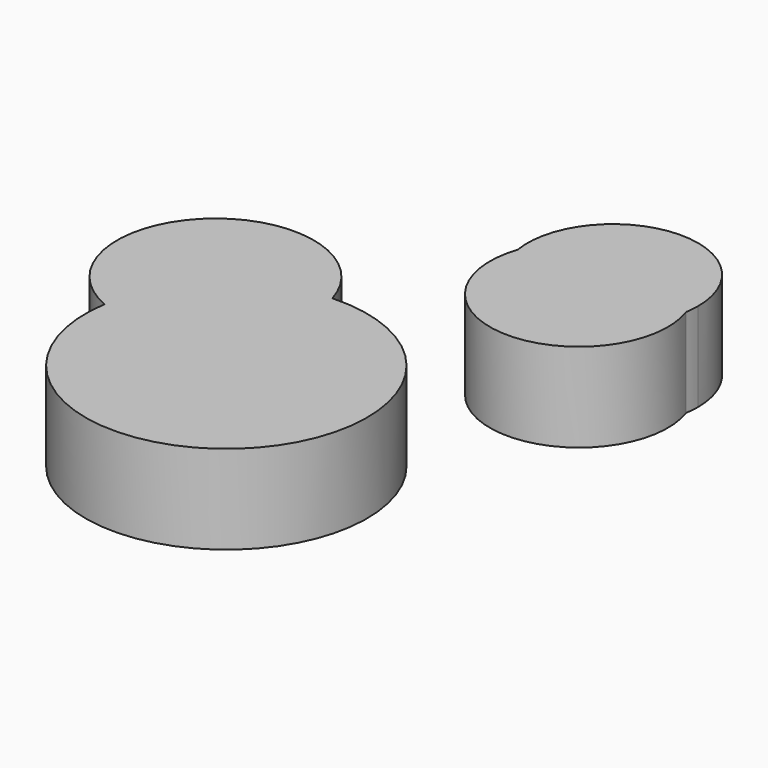
from build123d import *

# Parameters (mm, degrees)
F1_DEPTH = 25.4


with BuildPart() as f1:
    # F0 (on Top) → F1 (new body)
    with BuildSketch(Plane.XY):
        with BuildLine():
            ThreePointArc((-21.313107773, -3.9353134575), (5.2113469814, -1.4955611003), (17.8181601679, 21.9686105847))
            ThreePointArc((17.8181601679, 21.9686105847), (17.5176837905, 26.0698579564), (16.6226716892, 30.0835183052))
            ThreePointArc((16.6226716892, 30.0835183052), (-8.4134341697, 19.841016419), (-21.313107773, -3.9353134575))
        make_face()
        with BuildLine():
            ThreePointArc((16.6226716892, 30.0835183052), (17.5176837905, 26.0698579564), (17.8181601679, 21.9686105847))
            ThreePointArc((17.8181601679, 21.9686105847), (5.2113469814, -1.4955611003), (-21.313107773, -3.9353134575))
            ThreePointArc((-21.313107773, -3.9353134575), (15.3549362695, -50.2580617024), (58.71137708, -10.1262601092))
            ThreePointArc((58.71137708, -10.1262601092), (46.2648645603, 18.9782301011), (16.6226716892, 30.0835183052))
        make_face()
        with BuildLine():
            ThreePointArc((-21.313107773, -3.9353134575), (-8.4134341697, 19.841016419), (16.6226716892, 30.0835183052))
            ThreePointArc((16.6226716892, 30.0835183052), (-29.1080181694, 42.9183866283), (-21.313107773, -3.9353134575))
        make_face()
    extrude(amount=F1_DEPTH)


with BuildPart() as f1b:
    # F0 (on Top) → F1, piece 2 (new body)
    with BuildSketch(Plane.XY):
        with BuildLine():
            ThreePointArc((82.4510962925, 74.252351118), (82.687237437, 76.200813579), (82.7661210475, 78.1619474292))
            ThreePointArc((82.7661210475, 78.1619474292), (56.387566554, 102.500484462), (34.2463045158, 74.252351118))
            ThreePointArc((34.2463045158, 74.252351118), (58.3487004042, 91.5184453753), (82.4510962925, 74.252351118))
        make_face()
        with BuildLine():
            ThreePointArc((82.4510962925, 74.252351118), (58.3487004042, 91.5184453753), (34.2463045158, 74.252351118))
            ThreePointArc((34.2463045158, 74.252351118), (58.3487004042, 53.7445267858), (82.4510962925, 74.252351118))
        make_face()
        with BuildLine():
            ThreePointArc((82.4510962925, 74.252351118), (58.3487004042, 53.7445267858), (34.2463045158, 74.252351118))
            ThreePointArc((34.2463045158, 74.252351118), (54.1983257852, 40.9475252988), (83.8044718531, 66.0626739264))
            ThreePointArc((83.8044718531, 66.0626739264), (83.4638490317, 70.2130485453), (82.4510962925, 74.252351118))
        make_face()
    extrude(amount=F1_DEPTH)


solid = Compound([f1.part, f1b.part])
